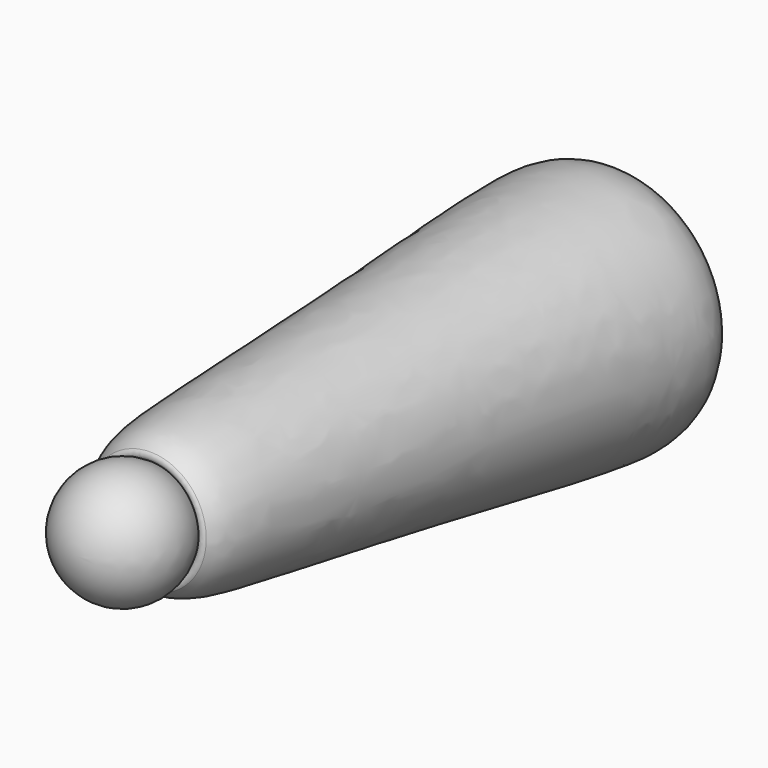
from build123d import *

# Parameters (mm, degrees)
FILLET102_R             = 6
FILLET103_R             = 3
BODY061_PLACEMENT_ANGLE = 4


with BuildPart() as part:
    # Sketch203 → Revolution104 (revolve)
    with BuildSketch(Plane.XY):
        with BuildLine():
            Line((0, -29.245996), (0, -395.969613))
            add(Edge.make_bspline(
                [(0, -29.245996), (71.97521, -29.245996), (74.761139, -71.14093), (60.18763, -188.319479), (45.659971, -358.12794), (39.993144, -395.969613), (0, -395.969613)],
                knots=[0, 0, 0, 0, 0.25, 0.5, 0.75, 1, 1, 1, 1], degree=3))
        make_face()
    revolve(axis=Axis((0, 0, 0), (0, 1, 0)))

    # Sketch204 → Groove099 (revolve, cut)
    with BuildSketch(Plane.XY):
        with BuildLine():
            Line((0, 60), (0, -60))
            ThreePointArc((0, -60), (60, 0), (0, 60))
        make_face()
    revolve(axis=Axis((0, 0, 0), (0, 1, 0)), mode=Mode.SUBTRACT)

    # Fillet102
    fillet102_edges = [part.edges().sort_by_distance(p)[0] for p in [
        (-48.746872, -34.982031, 0),
    ]]
    fillet(fillet102_edges, radius=FILLET102_R)

    # Sketch205 → Groove100 (revolve, cut)
    with BuildSketch(Plane.XY):
        with BuildLine():
            Line((0, -368), (0, -438))
            ThreePointArc((0, -438), (35, -403), (0, -368))
        make_face()
    revolve(axis=Axis((0, 0, 0), (0, 1, 0)), mode=Mode.SUBTRACT)

    # Fillet103
    fillet103_edges = [part.edges().sort_by_distance(p)[0] for p in [
        (-31.536984, -387.820454, 0),
    ]]
    fillet(fillet103_edges, radius=FILLET103_R)

    # Sketch205 → Revolution105 (revolve)
    with BuildSketch(Plane.XY):
        with BuildLine():
            Line((0, -368), (0, -438))
            ThreePointArc((0, -438), (35, -403), (0, -368))
        make_face()
    revolve(axis=Axis((0, 0, 0), (0, 1, 0)))


with BuildPart() as part_1:
    # Body061 placement: moved
    add(part.part.moved(Location((-75, 899.018312, 0.388141))).rotate(Axis((-75, 899.018312, 0.388141), (-1, 0, 0)), BODY061_PLACEMENT_ANGLE))


solid = part_1.part
